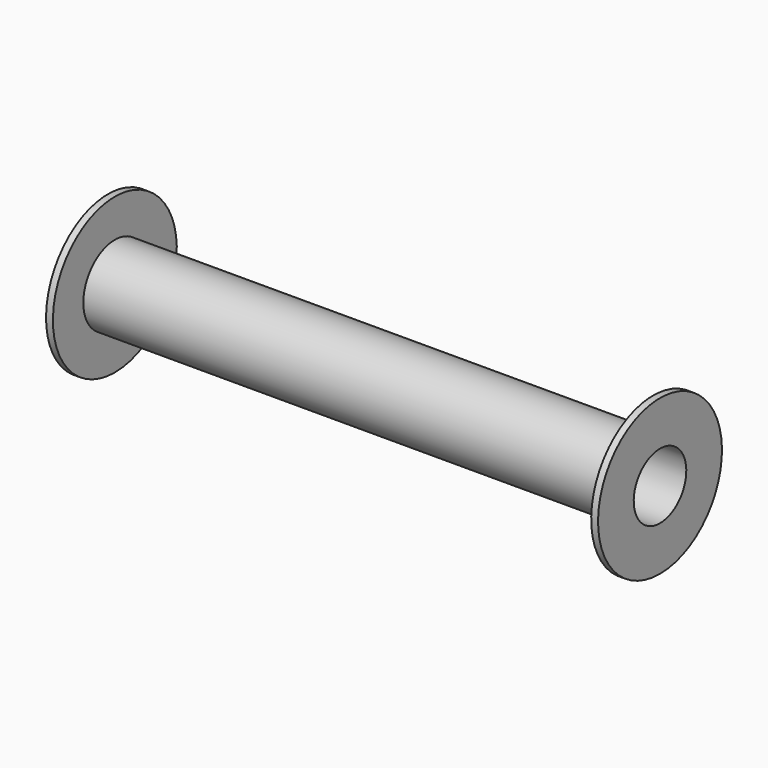
from build123d import *

# Parameters (mm, degrees)
F0_W = 1.0458609164
F0_H = 5.7817278951


with BuildPart() as f1:
    # F0 (on Front) → F1 (revolve)
    with BuildSketch(Plane.XZ):
        with Locations((-41.4770695418, -8.8908639476)):
            Rectangle(F0_W, F0_H)
        Polygon((0, -6), (0, -5), (-42, -5), (-42, -6), (-40.9541390836, -6), align=None)
        with Locations((41.4770695418, -8.8908639476)):
            Rectangle(F0_W, F0_H)
        Polygon((42, -5), (0, -5), (0, -6), (40.9541390836, -6), (42, -6), align=None)
    revolve(axis=Axis((-5.3423042409, 0, 0), (-1, 0, 0)))


solid = f1.part
